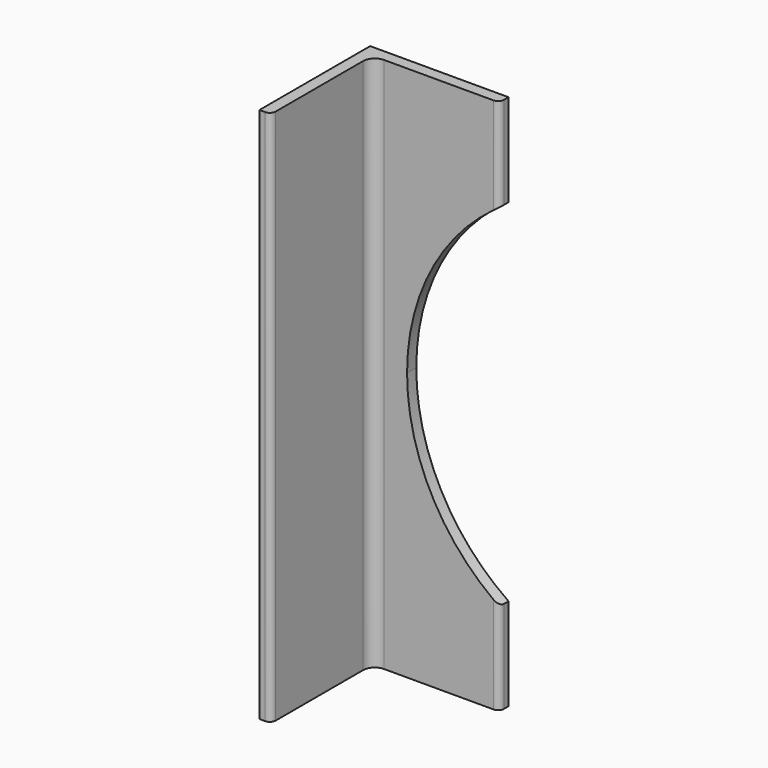
from build123d import *

# Parameters (mm, degrees)
F1_DEPTH = 590.55
F3_DEPTH = 25.4


with BuildPart() as f1:
    # F0 (on Top) → F1 (new body)
    with BuildSketch(Plane.XY):
        with BuildLine():
            Line((100.850261, 44.084094), (100.850261, 50.434094))
            Line((100.850261, 50.434094), (-51.549739, 50.434094))
            Line((-51.549739, 50.434094), (-51.549739, -101.965906))
            Line((-51.549739, -101.965906), (-45.199739, -101.965906))
            ThreePointArc((-45.199739, -101.965906), (-40.709611, -100.106034), (-38.849739, -95.615906))
            Line((-38.849739, -95.615906), (-38.849739, 25.034094))
            ThreePointArc((-38.849739, 25.034094), (-35.129995, 34.01435), (-26.149739, 37.734094))
            Line((-26.149739, 37.734094), (94.500261, 37.734094))
            ThreePointArc((94.500261, 37.734094), (98.990389, 39.593966), (100.850261, 44.084094))
        make_face()
    extrude(amount=F1_DEPTH)

    # F2 (on face) → F3 (cut)
    with BuildSketch(Plane(origin=(0, 50.434094, 0), x_dir=(-1, 0, 0), z_dir=(0, 1, 0))):
        with BuildLine():
            ThreePointArc((-100.850261, 101.834363), (-26.195351, 186.025469), (0.749739, 295.275))
            ThreePointArc((0.749739, 295.275), (-26.195351, 404.524531), (-100.850261, 488.715637))
            Line((-100.850261, 488.715637), (-100.850261, 101.834363))
        make_face()
    extrude(amount=-F3_DEPTH, mode=Mode.SUBTRACT)


solid = f1.part
